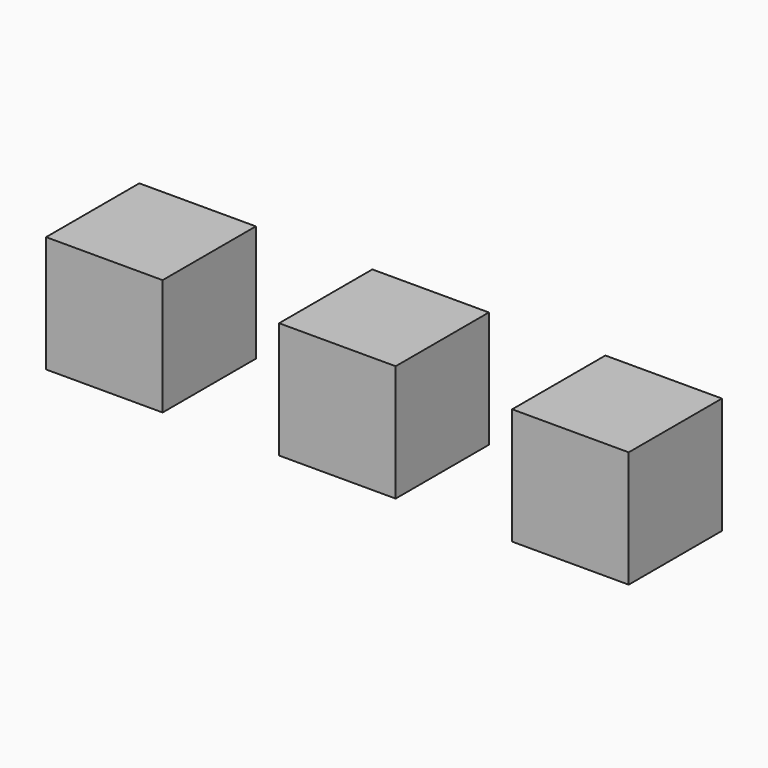
from build123d import *

# Parameters (mm, degrees)
F0_W     = 1000
F0_H     = 1000
F1_DEPTH = 500


with BuildPart() as f1:
    # F0 (on Top) → F1 (new body, symmetric)
    with BuildSketch(Plane.XY):
        Rectangle(F0_W, F0_H)
    extrude(amount=F1_DEPTH, both=True)


with BuildPart() as f2_1:
    # F2: copy of F1
    add(f1.part.moved(Location((2000, 0, 0))))


with BuildPart() as f3_1:
    # F3: copy of F2_1
    add(f2_1.part.moved(Location((2000, 0, 0))))


solid = Compound([f1.part, f2_1.part, f3_1.part])
